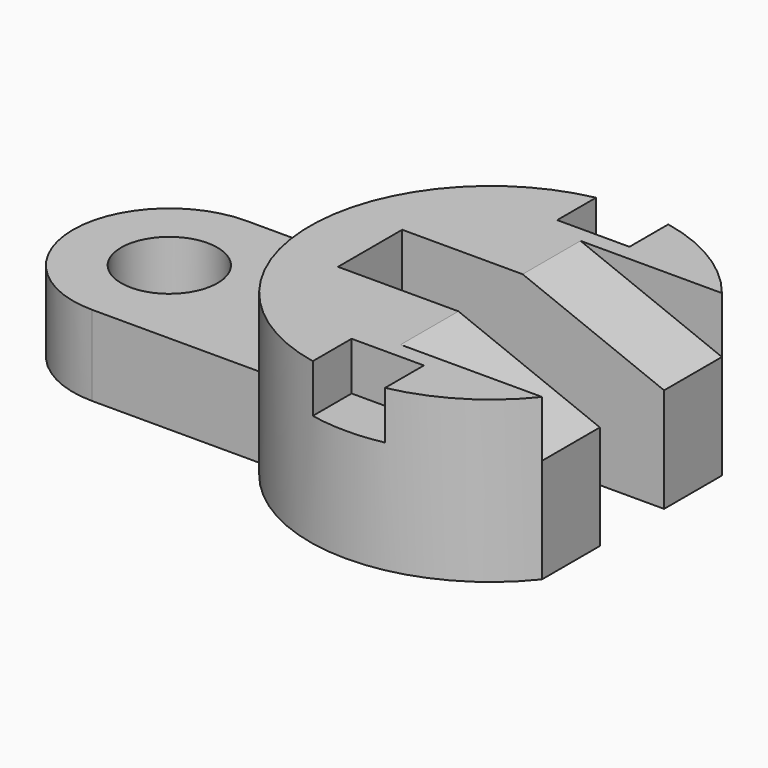
from build123d import *

# Parameters (mm, degrees)
F0_R      = 22.5
F1_DEPTH  = 10
F3_DEPTH  = 20.001
F5_DEPTH  = 6
F7_DEPTH  = 14
F8_W      = 37.5
F8_H      = 10
F9_DEPTH  = 10
F10_W     = 24
F10_H     = 10
F11_DEPTH = 52
F13_DEPTH = 10
F14_D     = 12


with BuildPart() as f1:
    # F0 (on Top) → F1 (new body, symmetric)
    with BuildSketch(Plane.XY):
        Circle(F0_R)
    extrude(amount=F1_DEPTH, both=True)

    # F2 (on face) → F3 (cut, through all)
    with BuildSketch(Plane.XY.offset(10)):
        with BuildLine():
            Line((17.6139149538, 14), (17.6139149538, -14))
            ThreePointArc((17.6139149538, -14), (21.2433882239, -7.4140715379), (22.5, 0))
            ThreePointArc((22.5, 0), (21.2433882239, 7.4140715379), (17.6139149538, 14))
        make_face()
    extrude(amount=-F3_DEPTH, mode=Mode.SUBTRACT)

    # F4 (on face) → F5 (cut)
    with BuildSketch(Plane.XY.offset(10)):
        with BuildLine():
            Line((4.5, -22.045407685), (4.5, -16))
            Line((4.5, -16), (-4.5, -16))
            Line((-4.5, -16), (-4.5, -22.045407685))
            ThreePointArc((-4.5, -22.045407685), (-2.2614516773, -22.3860634394), (-6.48e-08, -22.5))
            ThreePointArc((-6.48e-08, -22.5), (2.2614516129, -22.3860634459), (4.5, -22.045407685))
        make_face()
        with BuildLine():
            ThreePointArc((4.5, 22.045407685), (2.2614515402, 22.3860634532), (-2.11e-07, 22.5))
            ThreePointArc((-2.11e-07, 22.5), (-2.2614517501, 22.386063432), (-4.5, 22.045407685))
            Line((-4.5, 22.045407685), (-4.5, 16))
            Line((-4.5, 16), (4.5, 16))
            Line((4.5, 16), (4.5, 22.045407685))
        make_face()
    extrude(amount=-F5_DEPTH, mode=Mode.SUBTRACT)

    # F6 (on Front) → F7 (cut, symmetric)
    with BuildSketch(Plane.XZ):
        Polygon((17.6139149538, 3), (17.6139149538, 10), (0, 10), align=None)
    extrude(amount=F7_DEPTH, both=True, mode=Mode.SUBTRACT)

    # F8 (on Top) → F9 (cut, symmetric)
    with BuildSketch(Plane.XY):
        with Locations((3.75, 0)):
            Rectangle(F8_W, F8_H)
    extrude(amount=F9_DEPTH, both=True, mode=Mode.SUBTRACT)

    # F10 (on Right) → F11 (join)
    with BuildSketch(Plane.YZ):
        with Locations((0, -5)):
            Rectangle(F10_W, F10_H)
    extrude(amount=-F11_DEPTH)

    # F12 (on Top) → F13 (cut)
    with BuildSketch(Plane.XY):
        with BuildLine():
            Line((-40, 12), (-52, 12))
            Line((-52, 12), (-52, 0))
            ThreePointArc((-52, 0), (-48.4852813742, 8.4852813742), (-40, 12))
        make_face()
        with BuildLine():
            ThreePointArc((-40, -12), (-48.4852813742, -8.4852813742), (-52, 0))
            Line((-52, 0), (-52, -12))
            Line((-52, -12), (-40, -12))
        make_face()
    extrude(amount=-F13_DEPTH, mode=Mode.SUBTRACT)

    # F14 (through all)
    with Locations(Plane.XY):
        with Locations((-40, 0)):
            Hole(F14_D / 2)


solid = f1.part
